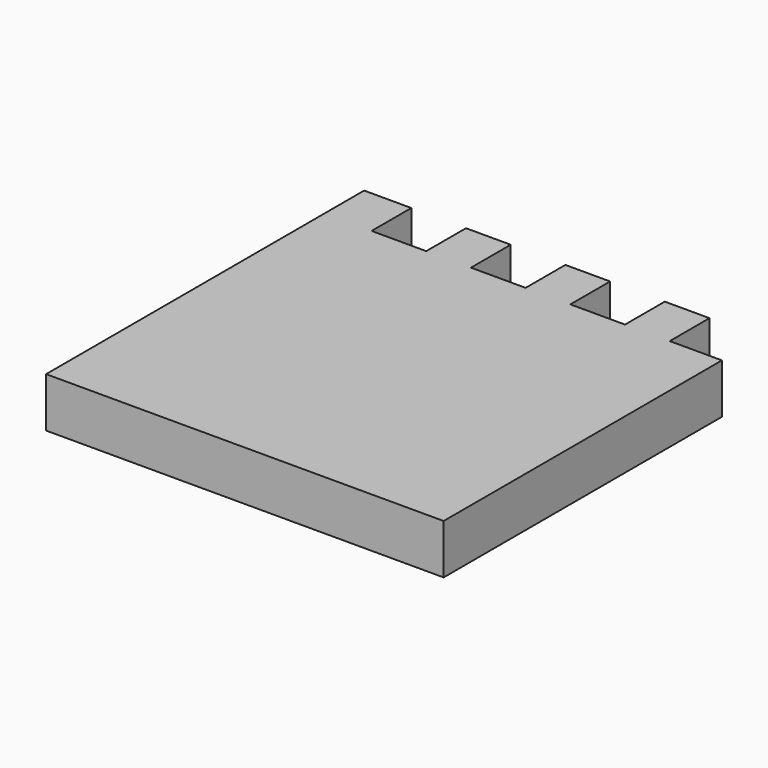
from build123d import *

# Parameters (mm, degrees)
BOX001_W              = 1.1
BOX001_H              = 1
BOX001_DEPTH          = 1
ARRAY_X_COUNT         = 4
ARRAY_X_PITCH         = 2
BOX_W                 = 8
BOX_H                 = 8
BOX_DEPTH             = 1
CLONE_PLACEMENT_ANGLE = 180


with BuildPart() as array:
    # Box001 → Box001 (new body)
    with BuildSketch(Plane(origin=(17.86, 30.4267, 0), x_dir=(1, 0, 0), z_dir=(0, 0, 1))):
        with Locations((0.55, 0.5)):
            Rectangle(BOX001_W, BOX001_H)
    extrude(amount=BOX001_DEPTH)

    # Array X: Array ×4


with BuildPart() as array_1:
    add(array.part)
    with Locations(*[(i * ARRAY_X_PITCH, 0, 0) for i in range(1, ARRAY_X_COUNT)]):
        add(array.part)


with BuildPart() as array_2:
    # Array placement: moved
    add(array_1.part.moved(Location((-0.05, 0, 0))))


with BuildPart() as fingersrev:
    # Box → Box (new body)
    with BuildSketch(Plane(origin=(17.86, 30.4267, 0), x_dir=(1, 0, 0), z_dir=(0, 0, 1))):
        with Locations((4, 4)):
            Rectangle(BOX_W, BOX_H)
    extrude(amount=BOX_DEPTH)

    # Cut: cut Array
    add(array_2.part, mode=Mode.SUBTRACT)


with BuildPart() as fingersrev_1:
    # Clone placement: moved
    add(fingersrev.part.moved(Location((43.72, 55.8434, 0))).rotate(Axis((43.72, 55.8434, 0), (0, 0, 1)), CLONE_PLACEMENT_ANGLE))


solid = fingersrev_1.part
